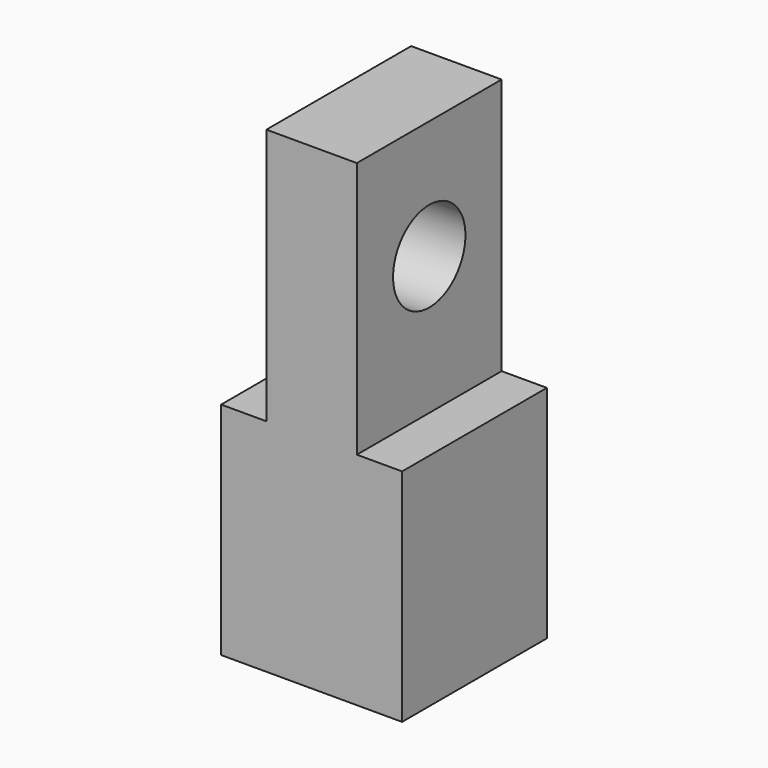
from build123d import *

# Parameters (mm, degrees)
F1_DEPTH = 16
F3_D     = 8
F5_D     = 8
F5_DEPTH = 8
F5_TIP   = 2.4034424761


with BuildPart() as f1:
    # F0 (on Front) → F1 (new body)
    with BuildSketch(Plane.XZ):
        Polygon((-8, -9.75), (8, -9.75), (8, 9.75), (4, 9.75), (4, 32.45), (0, 32.45), (-4, 32.45), (-4, 9.75), (-8, 9.75), align=None)
    extrude(amount=F1_DEPTH)

    # F3 (through all)
    with Locations(Plane.YZ.offset(4)):
        with Locations((-8, 21.95)):
            Hole(F3_D / 2)

    # F5
    with Locations(Plane(origin=(0, 0, -9.75), x_dir=(1, 0, 0), z_dir=(0, 0, -1))):
        with Locations((0, 8)):
            Hole(F5_D / 2, depth=F5_DEPTH)
            with Locations((0, 0, -(F5_DEPTH + F5_TIP / 2))):  # 118° drill point
                Cone(0, F5_D / 2, F5_TIP, mode=Mode.SUBTRACT)


solid = f1.part
